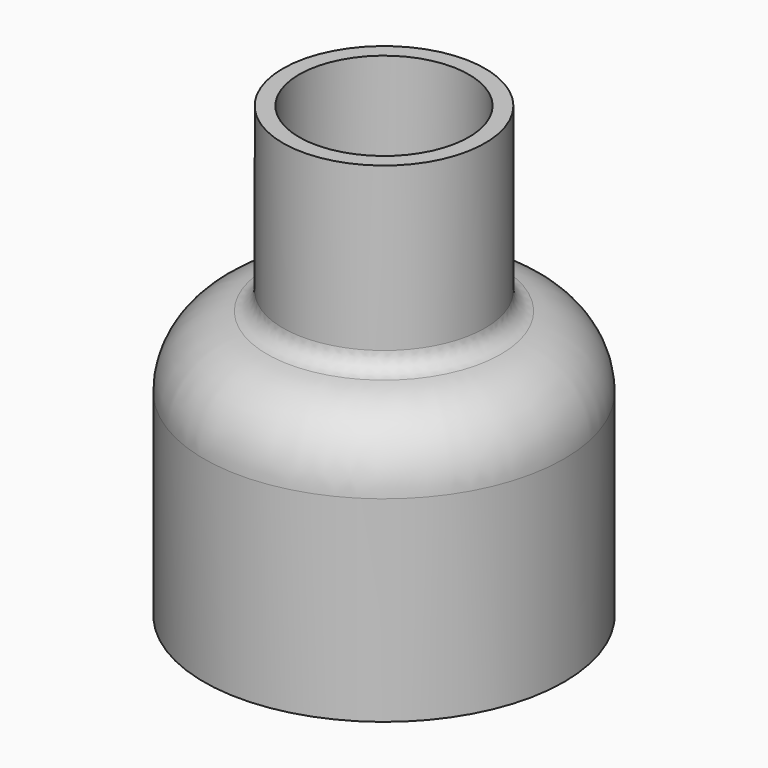
from build123d import *

# Parameters (mm, degrees)
FILLET_R    = 8
FILLET001_R = 8
FILLET002_R = 2
FILLET003_R = 2


with BuildPart() as part:
    # Sketch → Revolution (revolve)
    with BuildSketch(Plane.XZ):
        Polygon((-11.22, 21.8), (-11.22, 1.8), (-20, 1.8), (-20, -28), (-18.2, -28), (-18.2, 0), (-9.42, 0), (-9.42, 21.8), align=None)
    revolve(axis=Axis((0, 0, 0), (0, 0, 1)))

    # Fillet
    fillet_edges = [part.edges().sort_by_distance(p)[0] for p in [
        (18.2, 0, 0),
    ]]
    fillet(fillet_edges, radius=FILLET_R)

    # Fillet001
    fillet001_edges = [part.edges().sort_by_distance(p)[0] for p in [
        (20, 0, 1.8),
    ]]
    fillet(fillet001_edges, radius=FILLET001_R)

    # Fillet002
    fillet002_edges = [part.edges().sort_by_distance(p)[0] for p in [
        (11.22, 0, 1.8),
    ]]
    fillet(fillet002_edges, radius=FILLET002_R)

    # Fillet003
    fillet003_edges = [part.edges().sort_by_distance(p)[0] for p in [
        (9.42, 0, 0),
    ]]
    fillet(fillet003_edges, radius=FILLET003_R)


solid = part.part
